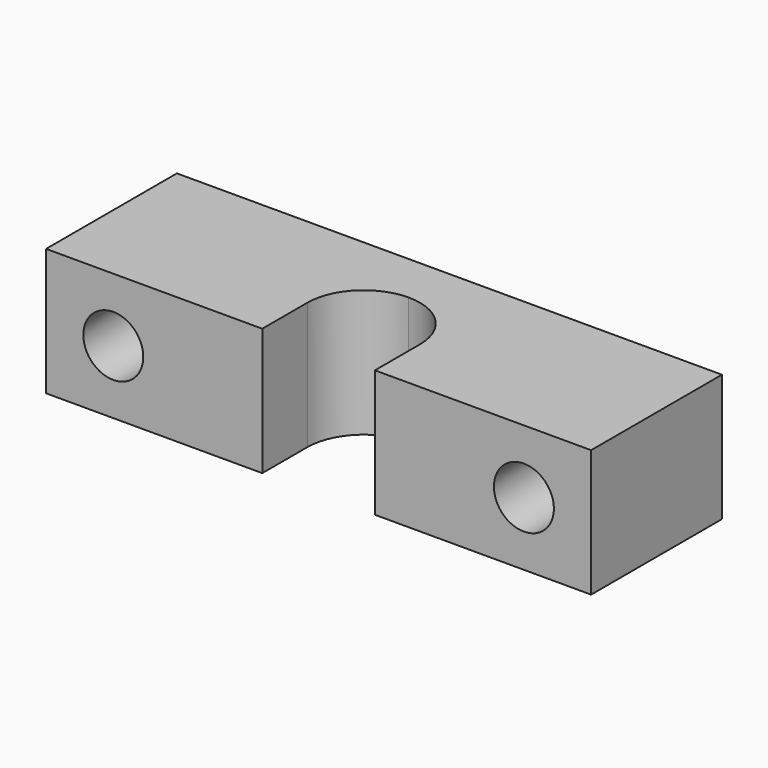
from build123d import *

# Parameters (mm, degrees)
F1_DEPTH = 7
F2_R     = 1.65
F3_DEPTH = 9.001


with BuildPart() as f1:
    # F0 (on Top) → F1 (new body)
    with BuildSketch(Plane.XY):
        with BuildLine():
            ThreePointArc((0, 3.1), (2.192031, 2.192031), (3.1, 0))
            Line((3.1, 0), (3.1, -3.1))
            Line((3.1, -3.1), (15, -3.1))
            Line((15, -3.1), (15, 5.9))
            Line((15, 5.9), (0, 5.9))
            Line((0, 5.9), (-15, 5.9))
            Line((-15, 5.9), (-15, -3.1))
            Line((-15, -3.1), (-3.1, -3.1))
            Line((-3.1, -3.1), (-3.1, 0))
            ThreePointArc((-3.1, 0), (-2.192031, 2.192031), (0, 3.1))
        make_face()
    extrude(amount=F1_DEPTH)

    # F2 (on face) → F3 (cut, through all)
    with BuildSketch(Plane(origin=(0, 5.9, 0), x_dir=(-1, 0, 0), z_dir=(0, 1, 0))):
        with Locations((11.3, 3.5)):
            Circle(F2_R)
        with Locations((-11.3, 3.5)):
            Circle(F2_R)
    extrude(amount=-F3_DEPTH, mode=Mode.SUBTRACT)


solid = f1.part
